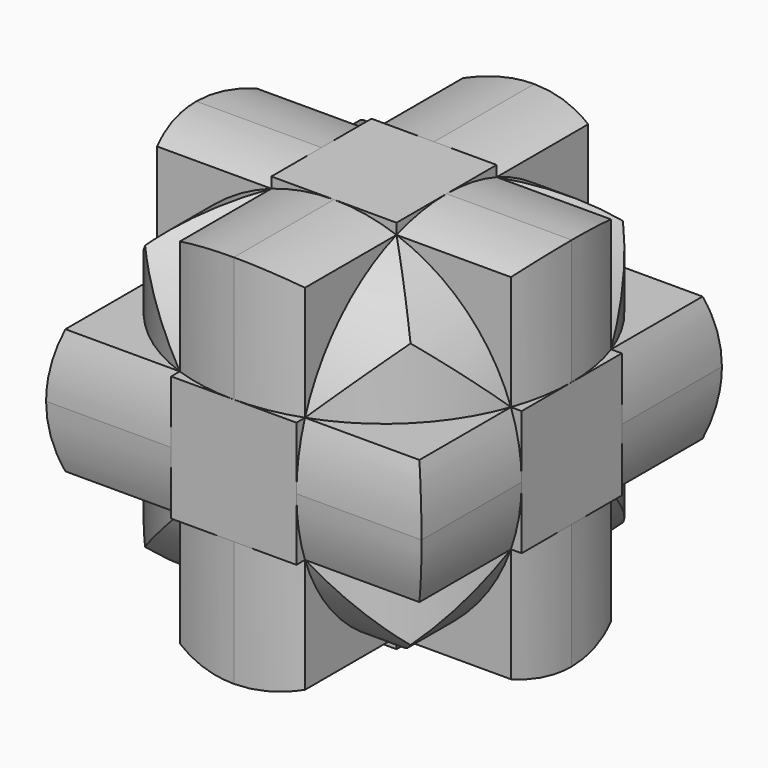
from build123d import *

# Parameters (mm, degrees)
F0_W      = 76.2
F0_H      = 76.2
F1_DEPTH  = 76.2
F4_DEPTH  = 76.2
F5_DEPTH  = 76.2
F8_DEPTH  = 76.2
F9_DEPTH  = 76.2
F11_DEPTH = 76.2
F13_DEPTH = 76.2
F14_DEPTH = 25.4
F15_DEPTH = 25.4
F16_DEPTH = 25.4
F17_DEPTH = 25.4
F18_DEPTH = 25.4
F19_DEPTH = 25.4
F20_DEPTH = 25.4
F21_DEPTH = 25.4
F22_DEPTH = 25.4


with BuildPart() as f1:
    # F0 (on Front) → F1 (new body)
    with BuildSketch(Plane.XZ):
        Rectangle(F0_W, F0_H)
    extrude(amount=F1_DEPTH)

    # F2 (on face) → F4 (join)
    with BuildSketch(Plane.XZ.offset(76.2)):
        with BuildLine():
            ThreePointArc((0, -38.1), (26.9407683632, -26.9407683632), (38.1, 0))
            ThreePointArc((38.1, 0), (26.9407683632, 26.9407683632), (0, 38.1))
            ThreePointArc((0, 38.1), (-26.9407683632, 26.9407683632), (-38.1, 0))
            ThreePointArc((-38.1, 0), (-26.9407683632, -26.9407683632), (0, -38.1))
        make_face()
    extrude(amount=-F4_DEPTH)

    # F3 (on face) → F5 (join)
    with BuildSketch(Plane.YZ.offset(38.1)):
        with BuildLine():
            ThreePointArc((-38.1, -38.1), (-11.1592316368, -26.9407683632), (0, 0))
            ThreePointArc((0, 0), (-11.1592316368, 26.9407683632), (-38.1, 38.1))
            ThreePointArc((-38.1, 38.1), (-65.0407683632, 26.9407683632), (-76.2, 0))
            ThreePointArc((-76.2, 0), (-65.0407683632, -26.9407683632), (-38.1, -38.1))
        make_face()
    extrude(amount=-F5_DEPTH)

    # F7 (on face) → F8 (join)
    with BuildSketch(Plane(origin=(0, 0, 0), x_dir=(-1, 0, 0), z_dir=(0, 1, 0))):
        with BuildLine():
            ThreePointArc((0, -38.1), (26.9407683632, -26.9407683632), (38.1, 0))
            ThreePointArc((38.1, 0), (26.9407683632, 26.9407683632), (0, 38.1))
            ThreePointArc((0, 38.1), (-26.9407683632, 26.9407683632), (-38.1, 0))
            ThreePointArc((-38.1, 0), (-26.9407683632, -26.9407683632), (0, -38.1))
        make_face()
    extrude(amount=-F8_DEPTH)



with BuildPart() as f9:
    # F6 (on face) → F9 (new body)
    with BuildSketch(Plane(origin=(-38.1, 0, 0), x_dir=(0, -1, 0), z_dir=(-1, 0, 0))):
        with BuildLine():
            ThreePointArc((38.1, -38.1), (65.0407683632, -26.9407683632), (76.2, 0))
            ThreePointArc((76.2, 0), (65.0407683632, 26.9407683632), (38.1, 38.1))
            ThreePointArc((38.1, 38.1), (11.1592316368, 26.9407683632), (0, 0))
            ThreePointArc((0, 0), (11.1592316368, -26.9407683632), (38.1, -38.1))
        make_face()
    extrude(amount=-F9_DEPTH)


with BuildPart() as f1_1:
    add(f1.part)

    add(f9.part)  # F11 merges F9
    # F10 (on face) → F11 (join)
    with BuildSketch(Plane.XY.offset(38.1)):
        with BuildLine():
            ThreePointArc((0, -76.2), (26.9407683632, -65.0407683632), (38.1, -38.1))
            ThreePointArc((38.1, -38.1), (26.9407683839, -11.1592316575), (5.86e-08, 0))
            ThreePointArc((5.86e-08, 0), (-26.9407683425, -11.1592316161), (-38.1, -38.1))
            ThreePointArc((-38.1, -38.1), (-26.9407683632, -65.0407683632), (0, -76.2))
        make_face()
    extrude(amount=-F11_DEPTH)

    # F12 (on face) → F13 (join)
    with BuildSketch(Plane(origin=(0, 0, -38.1), x_dir=(1, 0, 0), z_dir=(0, 0, -1))):
        with BuildLine():
            ThreePointArc((8.43e-08, 0), (26.940768393, 11.1592316666), (38.1, 38.1))
            ThreePointArc((38.1, 38.1), (26.9407683632, 65.0407683632), (0, 76.2))
            ThreePointArc((0, 76.2), (-26.9407683632, 65.0407683632), (-38.1, 38.1))
            ThreePointArc((-38.1, 38.1), (-26.9407683334, 11.159231607), (8.43e-08, 0))
        make_face()
    extrude(amount=-F13_DEPTH)

    # F2 (on face) → F14 (cut)
    with BuildSketch(Plane.XZ.offset(76.2)):
        with BuildLine():
            ThreePointArc((0, 38.1), (26.9407683632, 26.9407683632), (38.1, 0))
            Line((38.1, 0), (38.1, 38.1))
            Line((38.1, 38.1), (0, 38.1))
        make_face()
    extrude(amount=-F14_DEPTH, mode=Mode.SUBTRACT)

    # F2 (on face) → F15 (cut)
    with BuildSketch(Plane.XZ.offset(76.2)):
        with BuildLine():
            ThreePointArc((-38.1, 0), (-26.9407683632, 26.9407683632), (0, 38.1))
            Line((0, 38.1), (-38.1, 38.1))
            Line((-38.1, 38.1), (-38.1, 0))
        make_face()
    extrude(amount=-F15_DEPTH, mode=Mode.SUBTRACT)

    # F2 (on face) → F16 (cut)
    with BuildSketch(Plane.XZ.offset(76.2)):
        with BuildLine():
            Line((38.1, -38.1), (38.1, 0))
            ThreePointArc((38.1, 0), (26.9407683632, -26.9407683632), (0, -38.1))
            Line((0, -38.1), (38.1, -38.1))
        make_face()
        with BuildLine():
            Line((-38.1, -38.1), (0, -38.1))
            ThreePointArc((0, -38.1), (-26.9407683632, -26.9407683632), (-38.1, 0))
            Line((-38.1, 0), (-38.1, -38.1))
        make_face()
    extrude(amount=-F16_DEPTH, mode=Mode.SUBTRACT)

    # F3 (on face) → F17 (cut)
    with BuildSketch(Plane.YZ.offset(38.1)):
        with BuildLine():
            ThreePointArc((-76.2, 0), (-65.0407683632, 26.9407683632), (-38.1, 38.1))
            Line((-38.1, 38.1), (-76.2, 38.1))
            Line((-76.2, 38.1), (-76.2, 0))
        make_face()
    extrude(amount=-F17_DEPTH, mode=Mode.SUBTRACT)

    # F3 (on face) → F18 (cut)
    with BuildSketch(Plane.YZ.offset(38.1)):
        with BuildLine():
            ThreePointArc((-38.1, 38.1), (-11.1592316368, 26.9407683632), (0, 0))
            Line((0, 0), (0, 38.1))
            Line((0, 38.1), (-38.1, 38.1))
        make_face()
        with BuildLine():
            Line((0, -38.1), (0, 0))
            ThreePointArc((0, 0), (-11.1592316368, -26.9407683632), (-38.1, -38.1))
            Line((-38.1, -38.1), (0, -38.1))
        make_face()
        with BuildLine():
            Line((-76.2, -38.1), (-38.1, -38.1))
            ThreePointArc((-38.1, -38.1), (-65.0407683632, -26.9407683632), (-76.2, 0))
            Line((-76.2, 0), (-76.2, -38.1))
        make_face()
        with BuildLine():
            ThreePointArc((-76.2, 0), (-65.0407683632, 26.9407683632), (-38.1, 38.1))
            Line((-38.1, 38.1), (-76.2, 38.1))
            Line((-76.2, 38.1), (-76.2, 0))
        make_face()
    extrude(amount=-F18_DEPTH, mode=Mode.SUBTRACT)

    # F6 (on face) → F19 (cut)
    with BuildSketch(Plane(origin=(-38.1, 0, 0), x_dir=(0, -1, 0), z_dir=(-1, 0, 0))):
        with BuildLine():
            ThreePointArc((0, 0), (11.1592316368, 26.9407683632), (38.1, 38.1))
            Line((38.1, 38.1), (0, 38.1))
            Line((0, 38.1), (0, 0))
        make_face()
        with BuildLine():
            ThreePointArc((38.1, 38.1), (65.0407683632, 26.9407683632), (76.2, 0))
            Line((76.2, 0), (76.2, 38.1))
            Line((76.2, 38.1), (38.1, 38.1))
        make_face()
        with BuildLine():
            Line((76.2, -38.1), (76.2, 0))
            ThreePointArc((76.2, 0), (65.0407683632, -26.9407683632), (38.1, -38.1))
            Line((38.1, -38.1), (76.2, -38.1))
        make_face()
        with BuildLine():
            Line((0, -38.1), (38.1, -38.1))
            ThreePointArc((38.1, -38.1), (11.1592316368, -26.9407683632), (0, 0))
            Line((0, 0), (0, -38.1))
        make_face()
    extrude(amount=-F19_DEPTH, mode=Mode.SUBTRACT)

    # F7 (on face) → F20 (cut)
    with BuildSketch(Plane(origin=(0, 0, 0), x_dir=(-1, 0, 0), z_dir=(0, 1, 0))):
        with BuildLine():
            ThreePointArc((-38.1, 0), (-26.9407683632, 26.9407683632), (0, 38.1))
            Line((0, 38.1), (-38.1, 38.1))
            Line((-38.1, 38.1), (-38.1, 0))
        make_face()
        with BuildLine():
            ThreePointArc((0, 38.1), (26.9407683632, 26.9407683632), (38.1, 0))
            Line((38.1, 0), (38.1, 38.1))
            Line((38.1, 38.1), (0, 38.1))
        make_face()
        with BuildLine():
            Line((38.1, -38.1), (38.1, 0))
            ThreePointArc((38.1, 0), (26.9407683632, -26.9407683632), (0, -38.1))
            Line((0, -38.1), (38.1, -38.1))
        make_face()
        with BuildLine():
            Line((-38.1, -38.1), (0, -38.1))
            ThreePointArc((0, -38.1), (-26.9407683632, -26.9407683632), (-38.1, 0))
            Line((-38.1, 0), (-38.1, -38.1))
        make_face()
    extrude(amount=-F20_DEPTH, mode=Mode.SUBTRACT)

    # F10 (on face) → F21 (cut)
    with BuildSketch(Plane.XY.offset(38.1)):
        with BuildLine():
            ThreePointArc((5.86e-08, 0), (26.9407683839, -11.1592316575), (38.1, -38.1))
            Line((38.1, -38.1), (38.1, 0))
            Line((38.1, 0), (5.86e-08, 0))
        make_face()
        with BuildLine():
            Line((38.1, -76.2), (38.1, -38.1))
            ThreePointArc((38.1, -38.1), (26.9407683632, -65.0407683632), (0, -76.2))
            Line((0, -76.2), (38.1, -76.2))
        make_face()
        with BuildLine():
            Line((-38.1, -76.2), (0, -76.2))
            ThreePointArc((0, -76.2), (-26.9407683632, -65.0407683632), (-38.1, -38.1))
            Line((-38.1, -38.1), (-38.1, -76.2))
        make_face()
        with BuildLine():
            ThreePointArc((-38.1, -38.1), (-26.9407683425, -11.1592316161), (5.86e-08, 0))
            Line((5.86e-08, 0), (-38.1, 0))
            Line((-38.1, 0), (-38.1, -38.1))
        make_face()
    extrude(amount=-F21_DEPTH, mode=Mode.SUBTRACT)

    # F12 (on face) → F22 (cut)
    with BuildSketch(Plane(origin=(0, 0, -38.1), x_dir=(1, 0, 0), z_dir=(0, 0, -1))):
        with BuildLine():
            Line((-38.1, 0), (8.43e-08, 0))
            ThreePointArc((8.43e-08, 0), (-26.9407683334, 11.159231607), (-38.1, 38.1))
            Line((-38.1, 38.1), (-38.1, 0))
        make_face()
        with BuildLine():
            ThreePointArc((-38.1, 38.1), (-26.9407683632, 65.0407683632), (0, 76.2))
            Line((0, 76.2), (-38.1, 76.2))
            Line((-38.1, 76.2), (-38.1, 38.1))
        make_face()
        with BuildLine():
            ThreePointArc((0, 76.2), (26.9407683632, 65.0407683632), (38.1, 38.1))
            Line((38.1, 38.1), (38.1, 76.2))
            Line((38.1, 76.2), (0, 76.2))
        make_face()
        with BuildLine():
            Line((38.1, 0), (38.1, 38.1))
            ThreePointArc((38.1, 38.1), (26.940768393, 11.1592316666), (8.43e-08, 0))
            Line((8.43e-08, 0), (38.1, 0))
        make_face()
    extrude(amount=-F22_DEPTH, mode=Mode.SUBTRACT)


solid = f1_1.part
